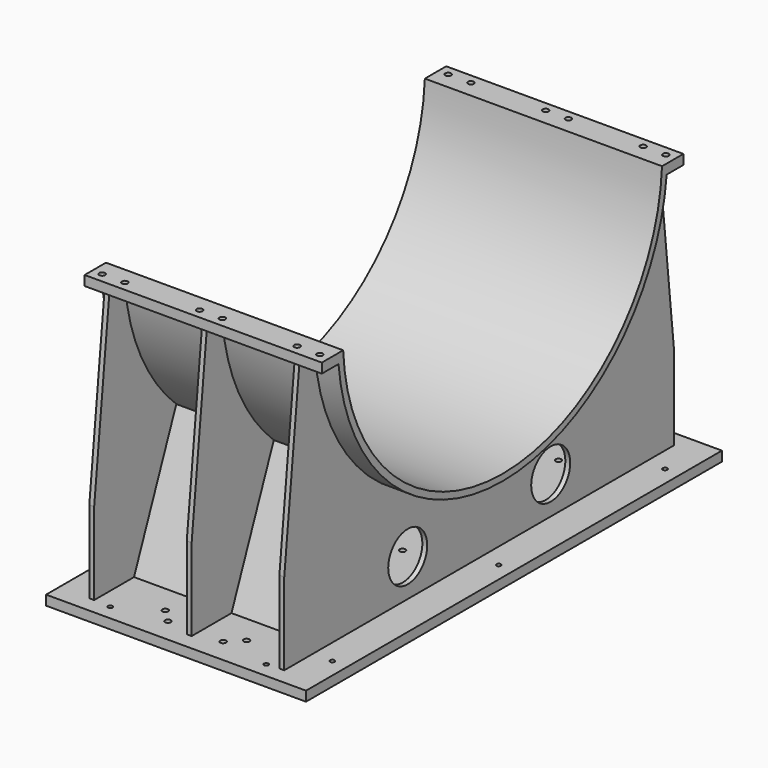
from build123d import *

# Parameters (mm, degrees)
F1_DEPTH  = 365
F2_W      = 730
F2_H      = 82.1332173976
F3_DEPTH  = 30
F4_R      = 9
F5_DEPTH  = 604.101
F7_R      = 75
F8_DEPTH  = 15
F10_R     = 75
F11_DEPTH = 15
F13_R     = 75
F14_DEPTH = 15
F15_W     = 800
F15_H     = 1600
F16_DEPTH = 30
F18_DEPTH = 600
F19_R     = 7
F19_R_2   = 9
F20_DEPTH = 31
F21_R     = 9
F22_DEPTH = 31


with BuildPart() as f1:
    # F0 (on Right) → F1 (new body, symmetric)
    with BuildSketch(Plane.YZ):
        with BuildLine():
            ThreePointArc((613.3667826024, -30), (0, -614.1), (-613.3667826024, -30))
            Line((-613.3667826024, -30), (-633.38993519, -30))
            ThreePointArc((-633.38993519, -30), (0, -634.1), (633.38993519, -30))
            Line((633.38993519, -30), (613.3667826024, -30))
        make_face()
    extrude(amount=F1_DEPTH, both=True)

    # F2 (on face) → F3 (join)
    with BuildSketch(Plane.XY.offset(-30)):
        with Locations((0, 654.4333913012)):
            Rectangle(F2_W, F2_H)
        with Locations((0, -654.4333913012)):
            Rectangle(F2_W, F2_H)
    extrude(amount=-F3_DEPTH)

    # F4 (on face) → F5 (cut, through all)
    with BuildSketch(Plane.XY.offset(-30)):
        with Locations((-335, 665.5)):
            Circle(F4_R)
        with Locations((-265, 665.5)):
            Circle(F4_R)
        with Locations((-35, 665.5)):
            Circle(F4_R)
        with Locations((35, 665.5)):
            Circle(F4_R)
        with Locations((265, 665.5)):
            Circle(F4_R)
        with Locations((335, 665.5)):
            Circle(F4_R)
        with Locations((-265, -665.5)):
            Circle(F4_R)
        with Locations((-335, -665.5)):
            Circle(F4_R)
        with Locations((-35, -665.5)):
            Circle(F4_R)
        with Locations((35, -665.5)):
            Circle(F4_R)
        with Locations((265, -665.5)):
            Circle(F4_R)
        with Locations((335, -665.5)):
            Circle(F4_R)
    extrude(amount=-F5_DEPTH, mode=Mode.SUBTRACT)

    # F7 (on offset) → F8 (join)
    with BuildSketch(Plane(origin=(-292, 0, 0), x_dir=(0, -1, 0), z_dir=(-1, 0, 0))):
        with BuildLine():
            Line((-750, -865), (750, -865))
            Line((750, -865), (750, -612))
            Line((750, -612), (692, -60))
            Line((692, -60), (631.2549484955, -60))
            ThreePointArc((631.2549484955, -60), (0, -634.1), (-631.2549484955, -60))
            Line((-631.2549484955, -60), (-692, -60))
            Line((-692, -60), (-750, -612))
            Line((-750, -612), (-750, -865))
        make_face()
        with Locations((-275, -750)):
            Circle(F7_R, mode=Mode.SUBTRACT)
        with Locations((275, -750)):
            Circle(F7_R, mode=Mode.SUBTRACT)
    extrude(amount=F8_DEPTH)

    # F10 (on offset) → F11 (join)
    with BuildSketch(Plane.YZ.offset(8)):
        with BuildLine():
            Line((692, -60), (631.2549484955, -60))
            ThreePointArc((631.2549484955, -60), (0, -634.1), (-631.2549484955, -60))
            Line((-631.2549484955, -60), (-692, -60))
            Line((-692, -60), (-750, -612))
            Line((-750, -612), (-750, -865))
            Line((-750, -865), (750, -865))
            Line((750, -865), (750, -612))
            Line((750, -612), (692, -60))
        make_face()
        with Locations((-275, -750)):
            Circle(F10_R, mode=Mode.SUBTRACT)
        with Locations((275, -750)):
            Circle(F10_R, mode=Mode.SUBTRACT)
    extrude(amount=-F11_DEPTH)

    # F13 (on offset) → F14 (join)
    with BuildSketch(Plane(origin=(293, 0, 0), x_dir=(0, -1, 0), z_dir=(-1, 0, 0))):
        with BuildLine():
            Line((750, -865), (750, -612))
            Line((750, -612), (692, -60))
            Line((692, -60), (631.2549484955, -60))
            ThreePointArc((631.2549484955, -60), (0, -634.1), (-631.2549484955, -60))
            Line((-631.2549484955, -60), (-692, -60))
            Line((-692, -60), (-750, -612))
            Line((-750, -612), (-750, -865))
            Line((-750, -865), (750, -865))
        make_face()
        with Locations((-275, -750)):
            Circle(F13_R, mode=Mode.SUBTRACT)
        with Locations((275, -750)):
            Circle(F13_R, mode=Mode.SUBTRACT)
    extrude(amount=F14_DEPTH)

    # F15 (on face) → F16 (join)
    with BuildSketch(Plane(origin=(0, 0, -865), x_dir=(1, 0, 0), z_dir=(0, 0, -1))):
        Rectangle(F15_W, F15_H)
    extrude(amount=F16_DEPTH)

    # F17 (on face) → F18 (join, through all)
    with BuildSketch(Plane(origin=(-307, 0, 0), x_dir=(0, -1, 0), z_dir=(-1, 0, 0))):
        with BuildLine():
            Line((-434, -462.3059701107), (-596.6989490625, -865))
            Line((-596.6989490625, -865), (-580.5209279224, -865))
            Line((-580.5209279224, -865), (-422.1895378001, -473.1160578253))
            ThreePointArc((-422.1895378001, -473.1160578253), (-428.1288890728, -467.7482916498), (-434, -462.3059701107))
        make_face()
        with BuildLine():
            Line((596.6989490625, -865), (434, -462.3059701107))
            ThreePointArc((434, -462.3059701107), (428.1288890728, -467.7482916498), (422.1895378001, -473.1160578253))
            Line((422.1895378001, -473.1160578253), (580.5209279224, -865))
            Line((580.5209279224, -865), (596.6989490625, -865))
        make_face()
    extrude(amount=-F18_DEPTH)

    # F19 (on face) → F20 (cut)
    with BuildSketch(Plane(origin=(0, 0, -895), x_dir=(1, 0, 0), z_dir=(0, 0, -1))):
        with Locations((-353, 0)):
            Circle(F19_R)
        with Locations((353, 0)):
            Circle(F19_R)
        with Locations((-353, 640)):
            Circle(F19_R)
        with Locations((-240, 753)):
            Circle(F19_R)
        with Locations((-85, 725)):
            Circle(F19_R_2)
        with Locations((85, 725)):
            Circle(F19_R_2)
        with Locations((240, 753)):
            Circle(F19_R)
        with Locations((353, 640)):
            Circle(F19_R)
        with Locations((-353, -640)):
            Circle(F19_R)
        with Locations((-240, -753)):
            Circle(F19_R)
        with Locations((-85, -725)):
            Circle(F19_R_2)
        with Locations((85, -725)):
            Circle(F19_R_2)
        with Locations((353, -640)):
            Circle(F19_R)
        with Locations((240, -753)):
            Circle(F19_R)
    extrude(amount=-F20_DEPTH, mode=Mode.SUBTRACT)

    # F21 (on face) → F22 (cut)
    with BuildSketch(Plane(origin=(0, 0, -895), x_dir=(1, 0, 0), z_dir=(0, 0, -1))):
        with Locations((-125, 685)):
            Circle(F21_R)
        with Locations((-125, 515)):
            Circle(F21_R)
        with Locations((125, 685)):
            Circle(F21_R)
        with Locations((125, 515)):
            Circle(F21_R)
        with Locations((-125, 85)):
            Circle(F21_R)
        with Locations((125, 85)):
            Circle(F21_R)
        with Locations((-125, -85)):
            Circle(F21_R)
        with Locations((125, -85)):
            Circle(F21_R)
        with Locations((-125, -685)):
            Circle(F21_R)
        with Locations((125, -685)):
            Circle(F21_R)
        with Locations((125, -515)):
            Circle(F21_R)
        with Locations((-125, -515)):
            Circle(F21_R)
    extrude(amount=-F22_DEPTH, mode=Mode.SUBTRACT)


solid = f1.part
